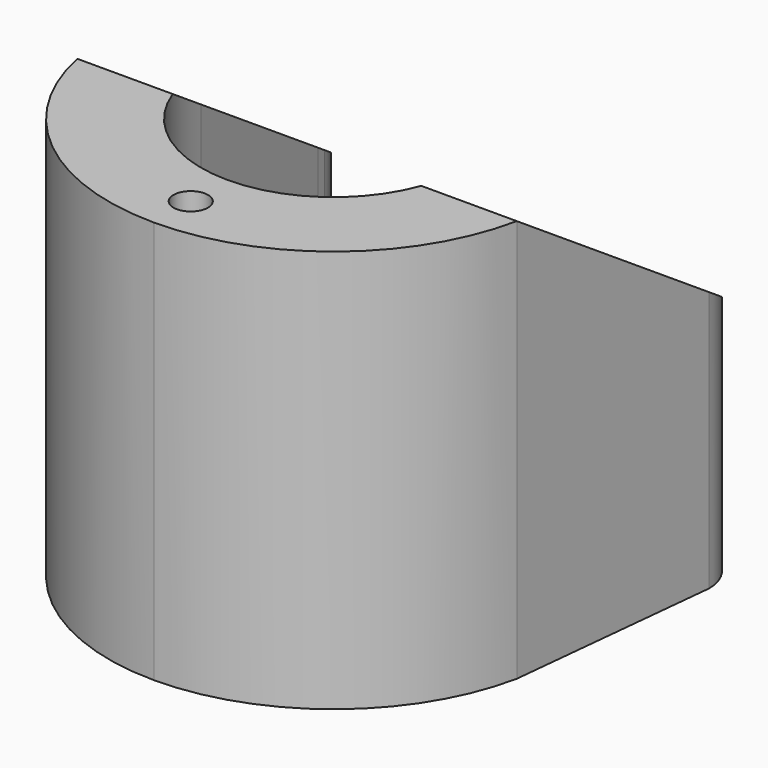
from build123d import *

# Parameters (mm, degrees)
F0_R          = 1.5
F1_DEPTH      = 35
F3_DEPTH      = 20.992492
F3_DEPTH_BACK = 20.992492


with BuildPart() as f1:
    # F0 (on Top) → F1 (new body)
    with BuildSketch(Plane.XY):
        with BuildLine():
            Line((12.991492, 14.542047), (11.5, 0))
            ThreePointArc((11.5, 0), (0, -11.5), (-11.5, 0))
            Line((-11.5, 0), (-12.991492, 14.542047))
            Line((-12.991492, 14.542047), (-13.074771, 15.354019))
            ThreePointArc((-13.074771, 15.354019), (-17.399607, 18.521173), (-20.991492, 14.542047))
            Line((-20.991492, 14.542047), (-19.094014, -3.95836))
            ThreePointArc((-19.094014, -3.95836), (-12.309792, -15.123459), (0, -19.5))
            ThreePointArc((0, -19.5), (12.309792, -15.123459), (19.094014, -3.95836))
            Line((19.094014, -3.95836), (20.991492, 14.542047))
            ThreePointArc((20.991492, 14.542047), (17.399607, 18.521173), (13.074771, 15.354019))
            Line((13.074771, 15.354019), (12.991492, 14.542047))
        make_face()
        with Locations((0, -15.5)):
            Circle(F0_R, mode=Mode.SUBTRACT)
        with Locations((-16.686909, 11.367775)):
            Circle(F0_R, mode=Mode.SUBTRACT)
        with Locations((16.686909, 11.367775)):
            Circle(F0_R, mode=Mode.SUBTRACT)
    extrude(amount=F1_DEPTH)

    # F2 (on Right) → F3 (cut, two sides)
    with BuildSketch(Plane.YZ) as f3_sk:
        Polygon((18.542047, 35), (14.542047, 35), (-3.95836, 35), (18.542047, 20), align=None)
    extrude(amount=F3_DEPTH, mode=Mode.SUBTRACT)
    extrude(f3_sk.sketch, amount=-F3_DEPTH_BACK, mode=Mode.SUBTRACT)


solid = f1.part
